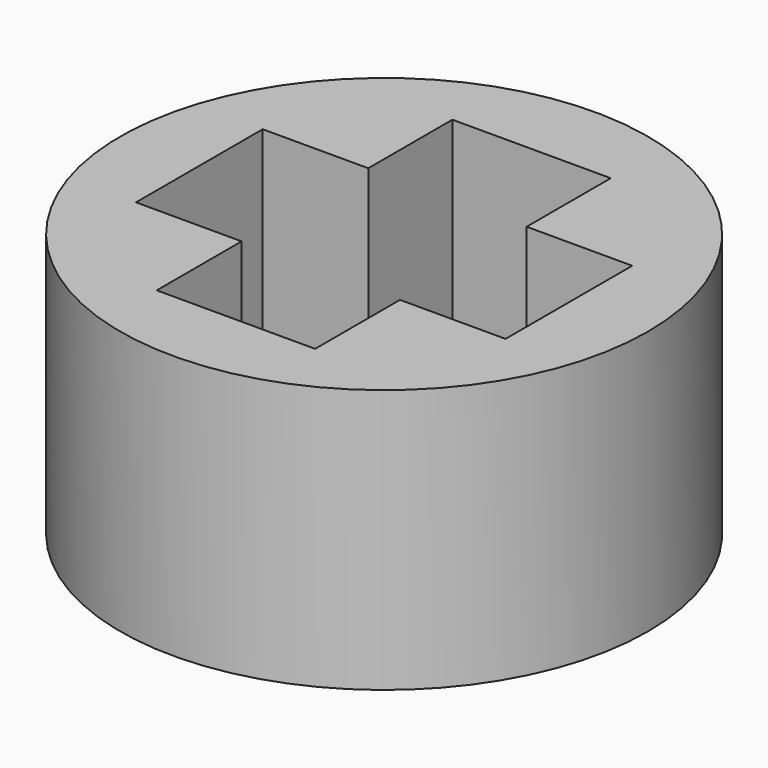
from build123d import *

# Parameters (mm, degrees)
F0_R     = 25
F1_DEPTH = 25


with BuildPart() as f1:
    # F0 (on Top) → F1 (new body)
    with BuildSketch(Plane.XY):
        Circle(F0_R)
        Polygon((17.5, 7.5), (17.5, -7.5), (7.499999, -7.5), (7.499999, -17.543753), (-7.500001, -17.543753), (-7.500001, -7.5), (-17.5, -7.5), (-17.5, 7.5), (-7.500001, 7.5), (-7.500001, 17.456247), (7.499999, 17.456247), (7.499999, 7.5), align=None, mode=Mode.SUBTRACT)
    extrude(amount=F1_DEPTH)


solid = f1.part
